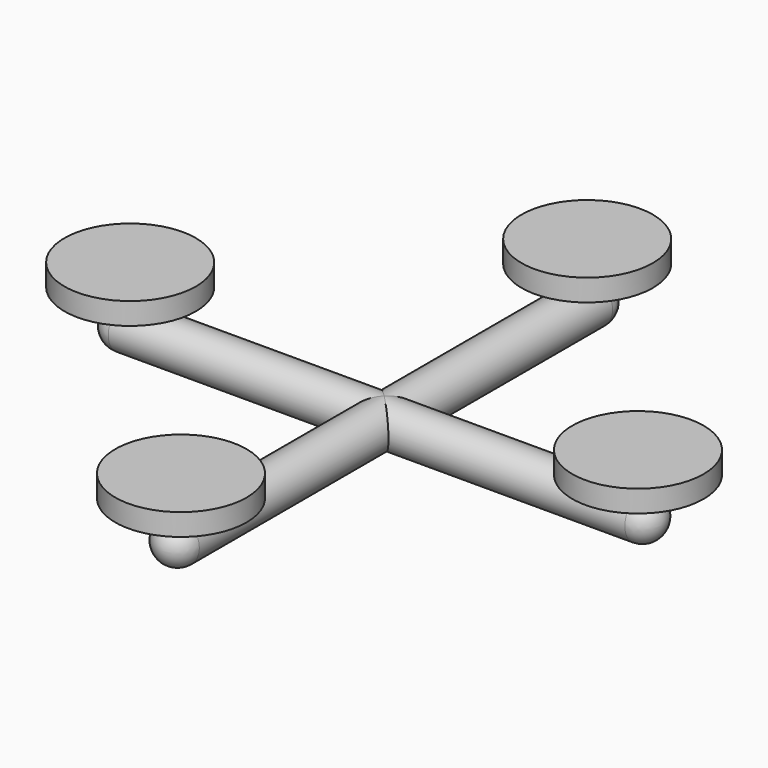
from build123d import *

# Parameters (mm, degrees)
F0_R     = 25
F1_DEPTH = 320
F2_COUNT = 2
F2_ANGLE = 90
F3_R     = 25
F4_R     = 10
F5_DEPTH = 40
F7_R     = 75
F8_DEPTH = 25


with BuildPart() as f1:
    # F0 (on Front) → F1 (new body, symmetric)
    with BuildSketch(Plane.XZ):
        Circle(F0_R)
    extrude(amount=F1_DEPTH, both=True)

    # F2: F1 ×2 about axis
    f2_axis = Axis((0, 0, 1.4691501971), (0, 0, -1))


with BuildPart() as f1_1:
    add(f1.part)
    for i in range(1, F2_COUNT):
        add(f1.part.rotate(f2_axis, i * F2_ANGLE / (F2_COUNT - 1)))

    # F3
    f3_edges = [f1_1.edges().sort_by_distance(p)[0] for p in [
        (-25, -320, 0),
        (320, 25, 0),
        (-25, 320, 0),
        (-320, 25, 0),
    ]]
    fillet(f3_edges, radius=F3_R)

    # F4 (on Top) → F5 (join)
    with BuildSketch(Plane.XY):
        with Locations((-290, 0)):
            Circle(F4_R)
        with Locations((0, -290)):
            Circle(F4_R)
        with Locations((290, 0)):
            Circle(F4_R)
        with Locations((0, 290)):
            Circle(F4_R)
    extrude(amount=F5_DEPTH)

    # F7 (on offset) → F8 (join)
    with BuildSketch(Plane.XY.offset(40)):
        with Locations((-290, 0)):
            Circle(F7_R)
        with Locations((-3.72e-08, 290)):
            Circle(F7_R)
        with Locations((290, 7.44e-08)):
            Circle(F7_R)
        with Locations((1.116e-07, -290)):
            Circle(F7_R)
    extrude(amount=F8_DEPTH)


solid = f1_1.part
